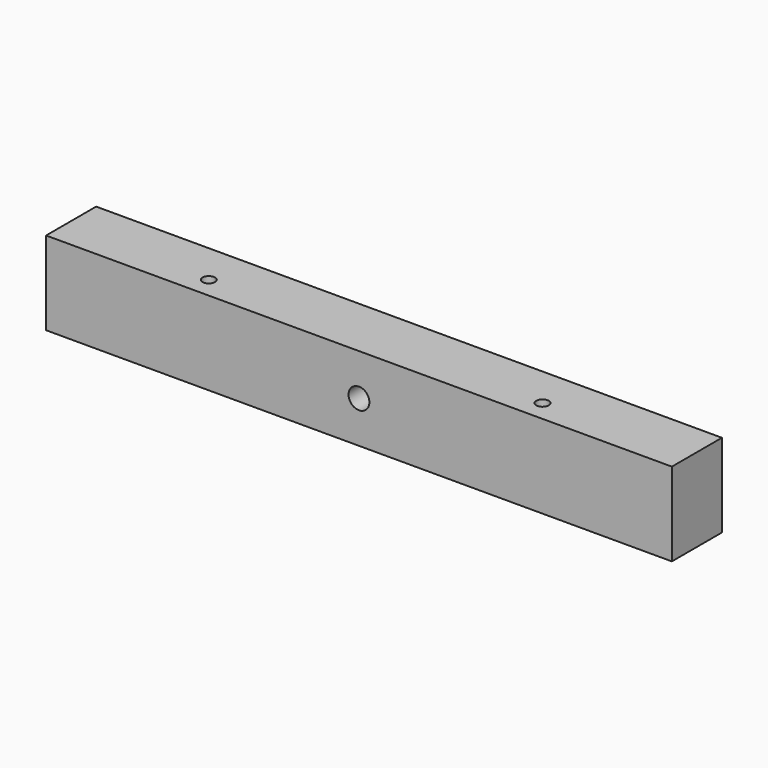
from build123d import *

# Parameters (mm, degrees)
F1_DEPTH = 20
F2_R     = 1.5
F3_DEPTH = 25
F4_R     = 2.5
F5_DEPTH = 25
F6_DEPTH = 5


with BuildPart() as f1:
    # F0 (on Top) → F1 (new body)
    with BuildSketch(Plane.XY):
        Polygon((75, -10), (75, 0), (75, 10), (-75, 10), (-75, -10), align=None)
    extrude(amount=F1_DEPTH)

    # F2 (on face) → F3 (cut)
    with BuildSketch(Plane.XY.offset(20)):
        with Locations((-40, 0)):
            Circle(F2_R)
        with Locations((40, 0)):
            Circle(F2_R)
    extrude(amount=-F3_DEPTH, mode=Mode.SUBTRACT)

    # F4 (on face) → F5 (cut)
    with BuildSketch(Plane.XZ.offset(10)):
        with Locations((0, 10)):
            Circle(F4_R)
    extrude(amount=-F5_DEPTH, mode=Mode.SUBTRACT)

    # F6 (cut): a face of the model
    f6_faces = [f1.faces().sort_by_distance(p)[0] for p in [
        (-73.486725405, -10, 10),
    ]]
    extrude(f6_faces, amount=-F6_DEPTH, mode=Mode.SUBTRACT)


solid = f1.part
